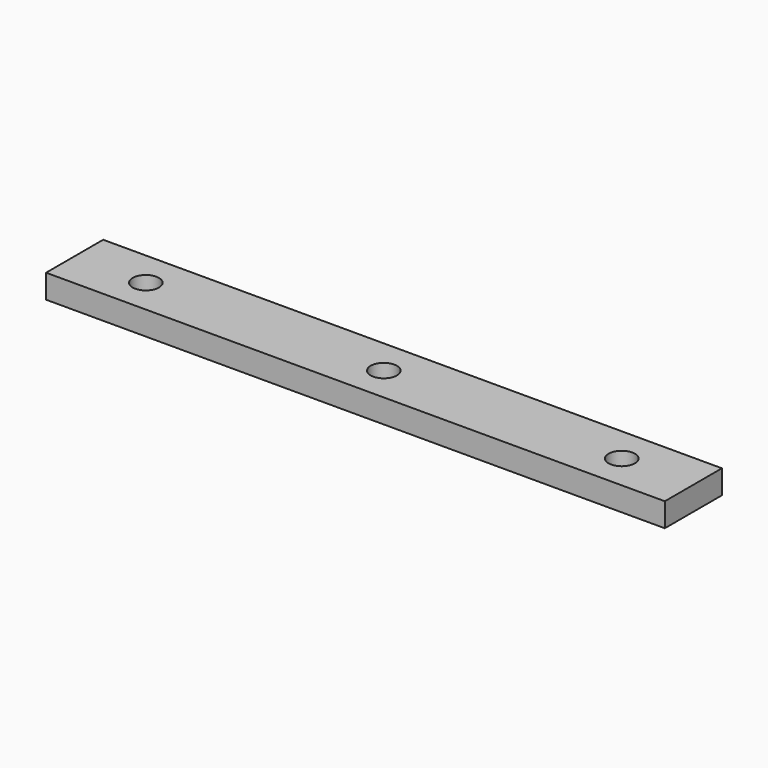
from build123d import *

# Parameters (mm, degrees)
F0_W     = 330.2
F0_H     = 38.1
F1_DEPTH = 12.7
F2_R     = 7
F3_DEPTH = 12.701


with BuildPart() as f1:
    # F0 (on Top) → F1 (new body)
    with BuildSketch(Plane.XY):
        with Locations((134.826842, 3.33862)):
            Rectangle(F0_W, F0_H)
    extrude(amount=F1_DEPTH)

    # F2 (on face) → F3 (cut, through all)
    with BuildSketch(Plane.XY.offset(12.7)):
        with Locations((7.826842, 3.195243)):
            Circle(F2_R)
        with Locations((134.826842, 3.195243)):
            Circle(F2_R)
        with Locations((261.826842, 3.195243)):
            Circle(F2_R)
    extrude(amount=-F3_DEPTH, mode=Mode.SUBTRACT)


solid = f1.part
